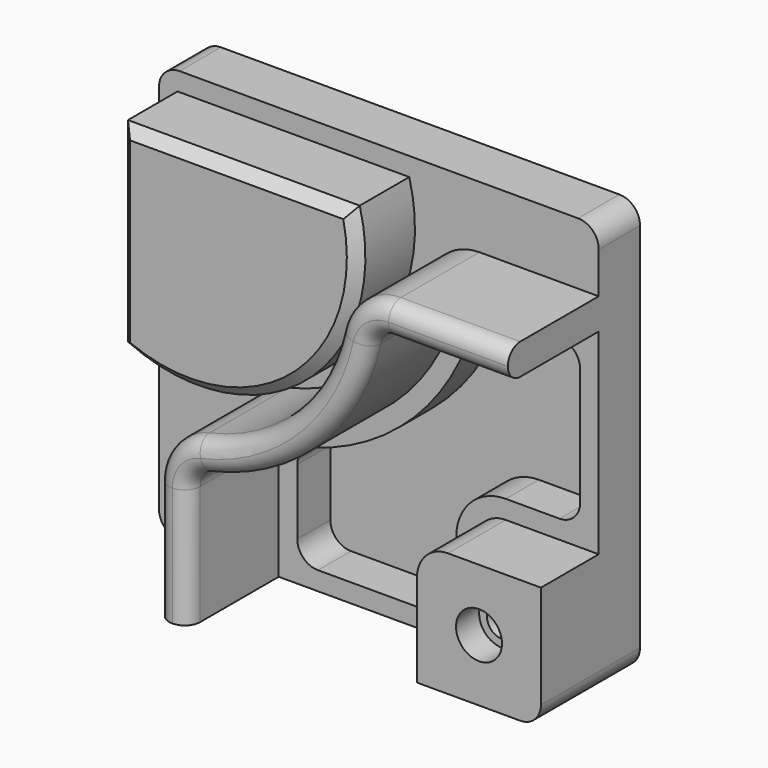
from build123d import *

# Parameters (mm, degrees)
F1_DEPTH       = 25
F2_DEPTH       = 35
F3_DEPTH       = 55
F4_DEPTH       = 20
F5_SIZE2       = 5
F5_SIZE        = 5
F7_D           = 14.75
F7_CBORE_D     = 22.25
F7_CBORE_DEPTH = 14
F8_R           = 7.4840620434


with BuildPart() as f1:
    # F0 (on Front) → F1 (new body)
    with BuildSketch(Plane.XZ):
        with BuildLine():
            Line((106.5, -40), (106.5, 55))
            Line((106.5, 55), (48.7497216032, 55))
            ThreePointArc((48.7497216032, 55), (42.4942891815, 52.8018949761), (38.9888762464, 47.1739130435))
            ThreePointArc((38.9888762464, 47.1739130435), (10.7462120246, -4.2462120246), (-40.6739130435, -32.4888762464))
            ThreePointArc((-40.6739130435, -32.4888762464), (-46.3018949761, -35.9942891815), (-48.5, -42.2497216032))
            Line((-48.5, -42.2497216032), (-48.5, -100))
            Line((-48.5, -100), (46.5, -100))
            Line((46.5, -100), (46.5, -55))
            ThreePointArc((46.5, -55), (50.8933982822, -44.3933982822), (61.5, -40))
            Line((61.5, -40), (106.5, -40))
        make_face()
        with BuildLine():
            ThreePointArc((-29.5, -91), (-36.5710678119, -88.0710678119), (-39.5, -81))
            Line((-39.5, -81), (-39.5, -49.2476414861))
            ThreePointArc((-39.5, -49.2476414861), (-37.481834214, -43.2234965193), (-32.2419354839, -39.630896205))
            ThreePointArc((-32.2419354839, -39.630896205), (17.1101730553, -10.6101730553), (46.130896205, 38.7419354839))
            ThreePointArc((46.130896205, 38.7419354839), (49.7234965193, 43.981834214), (55.7476414861, 46))
            Line((55.7476414861, 46), (87.5, 46))
            ThreePointArc((87.5, 46), (94.5710678119, 43.0710678119), (97.5, 36))
            Line((97.5, 36), (97.5, -21))
            ThreePointArc((97.5, -21), (94.5710678119, -28.0710678119), (87.5, -31))
            Line((87.5, -31), (61.5, -31))
            ThreePointArc((61.5, -31), (44.5294372515, -38.0294372515), (37.5, -55))
            Line((37.5, -55), (37.5, -81))
            ThreePointArc((37.5, -81), (34.5710678119, -88.0710678119), (27.5, -91))
            Line((27.5, -91), (-29.5, -91))
        make_face(mode=Mode.SUBTRACT)
        with BuildLine():
            Line((96.5, 100), (-96.5, 100))
            ThreePointArc((-96.5, 100), (-103.5710678119, 97.0710678119), (-106.5, 90))
            Line((-106.5, 90), (-106.5, -90))
            ThreePointArc((-106.5, -90), (-103.5710678119, -97.0710678119), (-96.5, -100))
            Line((-96.5, -100), (-63.5, -100))
            Line((-63.5, -100), (-63.5, -42.2497216032))
            ThreePointArc((-63.5, -42.2497216032), (-58.0047374401, -26.6111405489), (-43.9347826087, -17.8476082112))
            ThreePointArc((-43.9347826087, -17.8476082112), (0.1396103068, 6.3603896932), (24.3476082112, 50.4347826087))
            ThreePointArc((24.3476082112, 50.4347826087), (33.1111405489, 64.5047374401), (48.7497216032, 70))
            Line((48.7497216032, 70), (106.5, 70))
            Line((106.5, 70), (106.5, 90))
            ThreePointArc((106.5, 90), (103.5710678119, 97.0710678119), (96.5, 100))
        make_face()
        with BuildLine():
            ThreePointArc((14.7304288624, 91), (-11.3221396288, 8.044605666), (-97.5, -3.5187051029))
            Line((-97.5, -3.5187051029), (-97.5, 91))
            Line((-97.5, 91), (14.7304288624, 91))
        make_face(mode=Mode.SUBTRACT)
        with BuildLine():
            Line((-97.5, 91), (-97.5, -3.5187051029))
            ThreePointArc((-97.5, -3.5187051029), (-11.3221396288, 8.044605666), (14.7304288624, 91))
            Line((14.7304288624, 91), (-97.5, 91))
        make_face()
        with BuildLine():
            Line((-39.5, -49.2476414861), (-39.5, -81))
            ThreePointArc((-39.5, -81), (-36.5710678119, -88.0710678119), (-29.5, -91))
            Line((-29.5, -91), (27.5, -91))
            ThreePointArc((27.5, -91), (34.5710678119, -88.0710678119), (37.5, -81))
            Line((37.5, -81), (37.5, -55))
            ThreePointArc((37.5, -55), (44.5294372515, -38.0294372515), (61.5, -31))
            Line((61.5, -31), (87.5, -31))
            ThreePointArc((87.5, -31), (94.5710678119, -28.0710678119), (97.5, -21))
            Line((97.5, -21), (97.5, 36))
            ThreePointArc((97.5, 36), (94.5710678119, 43.0710678119), (87.5, 46))
            Line((87.5, 46), (55.7476414861, 46))
            ThreePointArc((55.7476414861, 46), (49.7234965193, 43.981834214), (46.130896205, 38.7419354839))
            ThreePointArc((46.130896205, 38.7419354839), (17.1101730553, -10.6101730553), (-32.2419354839, -39.630896205))
            ThreePointArc((-32.2419354839, -39.630896205), (-37.481834214, -43.2234965193), (-39.5, -49.2476414861))
        make_face()
        with BuildLine():
            Line((106.5, 55), (106.5, 70))
            Line((106.5, 70), (48.7497216032, 70))
            ThreePointArc((48.7497216032, 70), (33.1111405489, 64.5047374401), (24.3476082112, 50.4347826087))
            ThreePointArc((24.3476082112, 50.4347826087), (0.1396103068, 6.3603896932), (-43.9347826087, -17.8476082112))
            ThreePointArc((-43.9347826087, -17.8476082112), (-58.0047374401, -26.6111405489), (-63.5, -42.2497216032))
            Line((-63.5, -42.2497216032), (-63.5, -100))
            Line((-63.5, -100), (-48.5, -100))
            Line((-48.5, -100), (-48.5, -42.2497216032))
            ThreePointArc((-48.5, -42.2497216032), (-46.3018949761, -35.9942891815), (-40.6739130435, -32.4888762464))
            ThreePointArc((-40.6739130435, -32.4888762464), (10.7462120246, -4.2462120246), (38.9888762464, 47.1739130435))
            ThreePointArc((38.9888762464, 47.1739130435), (42.4942891815, 52.8018949761), (48.7497216032, 55))
            Line((48.7497216032, 55), (106.5, 55))
        make_face()
        with BuildLine():
            Line((106.5, -90), (106.5, -40))
            Line((106.5, -40), (61.5, -40))
            ThreePointArc((61.5, -40), (50.8933982822, -44.3933982822), (46.5, -55))
            Line((46.5, -55), (46.5, -100))
            Line((46.5, -100), (96.5, -100))
            ThreePointArc((96.5, -100), (103.5710678119, -97.0710678119), (106.5, -90))
        make_face()
    extrude(amount=-F1_DEPTH)

    # F0 (on Front) → F2 (join)
    with BuildSketch(Plane.XZ):
        with BuildLine():
            Line((-97.5, 91), (-97.5, -3.5187051029))
            ThreePointArc((-97.5, -3.5187051029), (-11.3221396288, 8.044605666), (14.7304288624, 91))
            Line((14.7304288624, 91), (-97.5, 91))
        make_face()
        with BuildLine():
            Line((106.5, -90), (106.5, -40))
            Line((106.5, -40), (61.5, -40))
            ThreePointArc((61.5, -40), (50.8933982822, -44.3933982822), (46.5, -55))
            Line((46.5, -55), (46.5, -100))
            Line((46.5, -100), (96.5, -100))
            ThreePointArc((96.5, -100), (103.5710678119, -97.0710678119), (106.5, -90))
        make_face()
    extrude(amount=F2_DEPTH)

    # F0 (on Front) → F3 (join)
    with BuildSketch(Plane.XZ):
        with BuildLine():
            Line((106.5, 55), (106.5, 70))
            Line((106.5, 70), (48.7497216032, 70))
            ThreePointArc((48.7497216032, 70), (33.1111405489, 64.5047374401), (24.3476082112, 50.4347826087))
            ThreePointArc((24.3476082112, 50.4347826087), (0.1396103068, 6.3603896932), (-43.9347826087, -17.8476082112))
            ThreePointArc((-43.9347826087, -17.8476082112), (-58.0047374401, -26.6111405489), (-63.5, -42.2497216032))
            Line((-63.5, -42.2497216032), (-63.5, -100))
            Line((-63.5, -100), (-48.5, -100))
            Line((-48.5, -100), (-48.5, -42.2497216032))
            ThreePointArc((-48.5, -42.2497216032), (-46.3018949761, -35.9942891815), (-40.6739130435, -32.4888762464))
            ThreePointArc((-40.6739130435, -32.4888762464), (10.7462120246, -4.2462120246), (38.9888762464, 47.1739130435))
            ThreePointArc((38.9888762464, 47.1739130435), (42.4942891815, 52.8018949761), (48.7497216032, 55))
            Line((48.7497216032, 55), (106.5, 55))
        make_face()
    extrude(amount=F3_DEPTH)

    # F0 (on Front) → F4 (cut)
    with BuildSketch(Plane.XZ):
        with BuildLine():
            Line((-39.5, -49.2476414861), (-39.5, -81))
            ThreePointArc((-39.5, -81), (-36.5710678119, -88.0710678119), (-29.5, -91))
            Line((-29.5, -91), (27.5, -91))
            ThreePointArc((27.5, -91), (34.5710678119, -88.0710678119), (37.5, -81))
            Line((37.5, -81), (37.5, -55))
            ThreePointArc((37.5, -55), (44.5294372515, -38.0294372515), (61.5, -31))
            Line((61.5, -31), (87.5, -31))
            ThreePointArc((87.5, -31), (94.5710678119, -28.0710678119), (97.5, -21))
            Line((97.5, -21), (97.5, 36))
            ThreePointArc((97.5, 36), (94.5710678119, 43.0710678119), (87.5, 46))
            Line((87.5, 46), (55.7476414861, 46))
            ThreePointArc((55.7476414861, 46), (49.7234965193, 43.981834214), (46.130896205, 38.7419354839))
            ThreePointArc((46.130896205, 38.7419354839), (17.1101730553, -10.6101730553), (-32.2419354839, -39.630896205))
            ThreePointArc((-32.2419354839, -39.630896205), (-37.481834214, -43.2234965193), (-39.5, -49.2476414861))
        make_face()
    extrude(amount=-F4_DEPTH, mode=Mode.SUBTRACT)

    # F5
    f5_edges = [f1.edges().sort_by_distance(p)[0] for p in [
        (-11.32214, -35, 8.044606),
        (-41.384786, -35, 91),
        (-97.5, -35, 43.740647),
    ]]
    chamfer(f5_edges, length=F5_SIZE, length2=F5_SIZE2)

    # F7 (through all)
    with Locations(Plane.XZ.offset(35)):
        with Locations((76.5, -70)):
            CounterBoreHole(F7_D / 2, F7_CBORE_D / 2, F7_CBORE_DEPTH)

    # F8
    f8_edges = [f1.edges().sort_by_distance(p)[0] for p in [
        (-48.5, -55, -71.124861),
        (-63.5, -55, -71.124861),
    ]]
    fillet(f8_edges, radius=F8_R)


solid = f1.part
